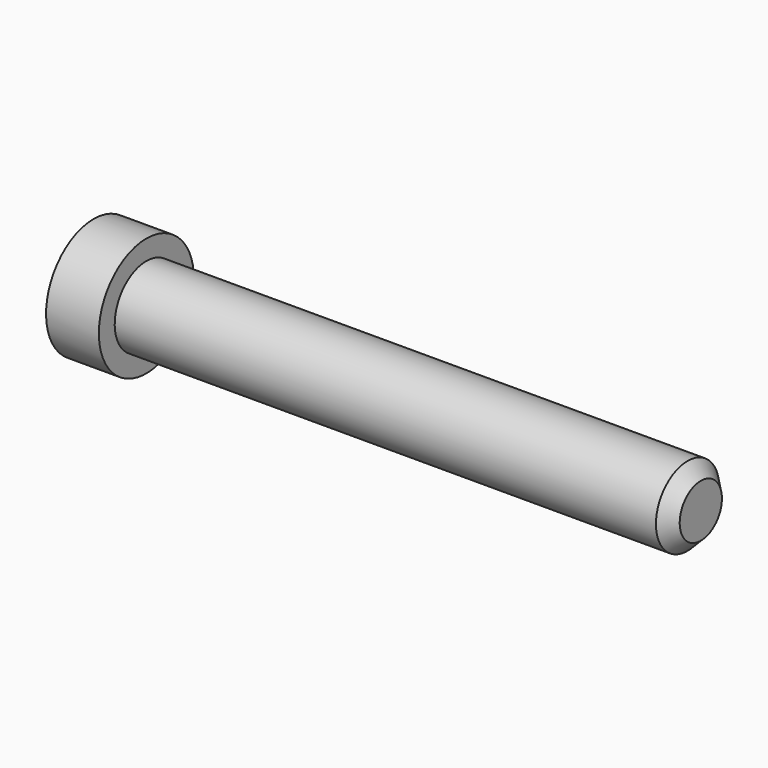
from build123d import *

# Parameters (mm, degrees)
F2_SIZE = 5


with BuildPart() as f1:
    # F0 (on Front) → F1 (revolve)
    with BuildSketch(Plane.XZ):
        Polygon((-20, 22.5), (-20, 0), (210, 0), (210, 15), (0, 15), (0, 22.5), align=None)
    revolve(axis=Axis((95, 0, 0), (-1, 0, 0)))

    # F2
    f2_edges = [f1.edges().sort_by_distance(p)[0] for p in [
        (210, 0, -15),
    ]]
    chamfer(f2_edges, length=F2_SIZE)


solid = f1.part
